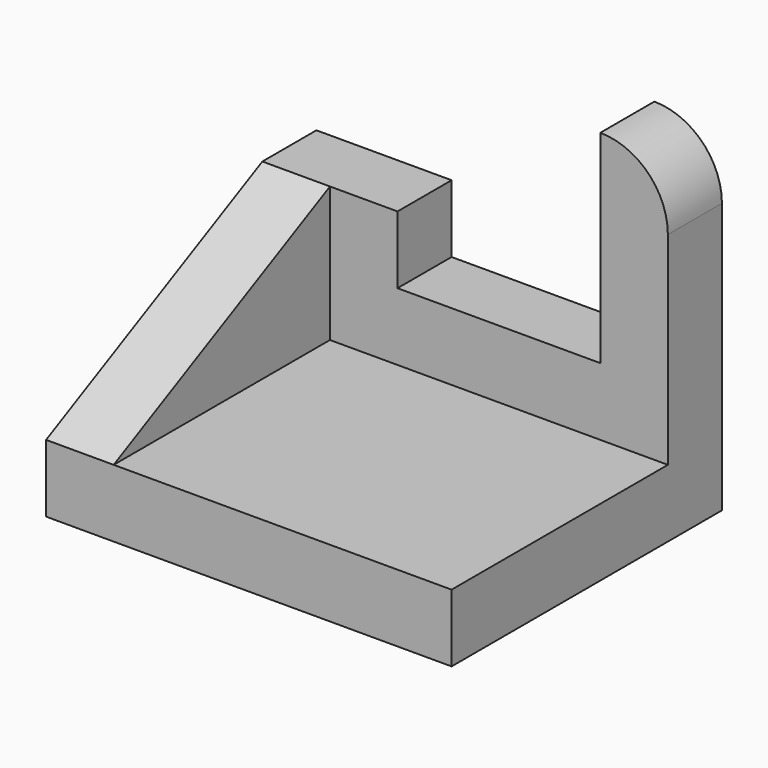
from build123d import *

# Parameters (mm, degrees)
F0_W     = 60
F0_H     = 50
F1_DEPTH = 10
F3_DEPTH = 40
F5_DEPTH = 10.001
F7_DEPTH = 10.001


with BuildPart() as f1:
    # F0 (on Top) → F1 (new body)
    with BuildSketch(Plane.XY):
        with Locations((30, 25)):
            Rectangle(F0_W, F0_H)
    extrude(amount=F1_DEPTH)

    # F2 (on face) → F3 (join)
    with BuildSketch(Plane.XY.offset(10)):
        Polygon((0, 0), (10, 0), (10, 40), (60, 40), (60, 50), (0, 50), align=None)
    extrude(amount=F3_DEPTH)

    # F4 (on face) → F5 (cut, through all)
    with BuildSketch(Plane.YZ.offset(10)):
        Polygon((0, 10), (40, 30), (40, 50), (0, 50), align=None)
    extrude(amount=-F5_DEPTH, mode=Mode.SUBTRACT)

    # F6 (on face) → F7 (cut, through all)
    with BuildSketch(Plane.XZ.offset(-40)):
        with BuildLine():
            Line((60, 50), (50, 50))
            ThreePointArc((50, 50), (57.071068, 47.071068), (60, 40))
            Line((60, 40), (60, 50))
        make_face()
        Polygon((0, 50), (0, 30), (10, 30), (20, 30), (20, 20), (50, 20), (50, 50), align=None)
    extrude(amount=-F7_DEPTH, mode=Mode.SUBTRACT)


solid = f1.part
